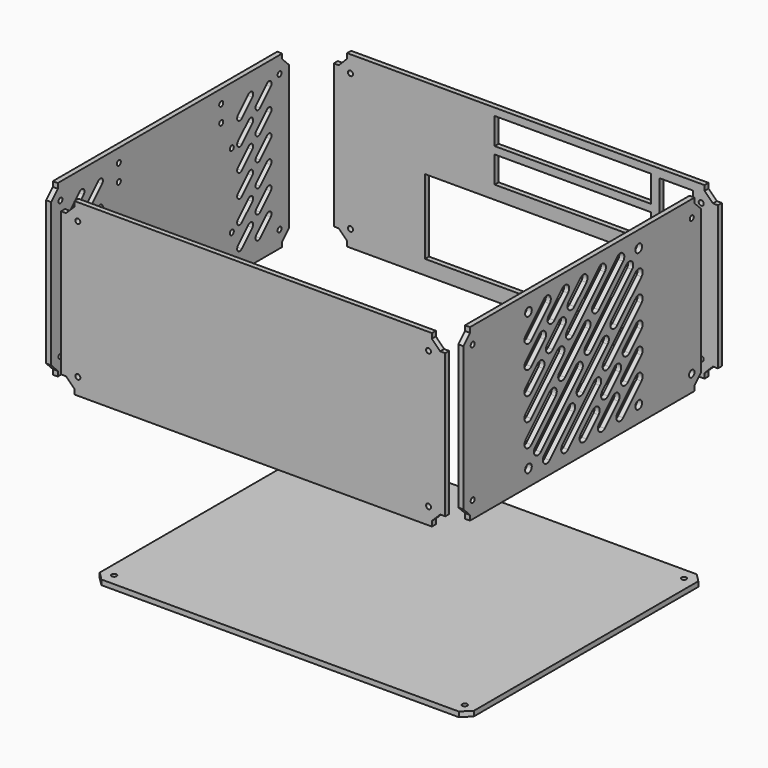
from build123d import *

# Parameters (mm, degrees)
F1_R      = 1.5
F2_DEPTH  = 3
F4_R      = 1.5
F4_R_2    = 2.0465
F5_DEPTH  = 3
F7_R      = 1.5
F8_DEPTH  = 3
F9_W      = 159
F9_H      = 44.7
F9_W_2    = 93.7
F9_H_2    = 15.9
F9_W_3    = 20
F9_H_3    = 40
F10_DEPTH = 25
F11_R     = 2.5
F12_DEPTH = 25
F14_R     = 1.5
F15_DEPTH = 3
F17_R     = 1.5
F18_DEPTH = 3
F19_R     = 1.5
F20_DEPTH = 25


with BuildPart() as f2:
    # F1 (on offset) → F2 (new body)
    with BuildSketch(Plane.XZ.offset(80)):
        Polygon((114.807646, 58.968537), (-99.192354, 58.968537), (-99.192354, 55.968537), (-104.192354, 50.968537), (-107.192354, 50.968537), (-107.192354, -35.031463), (-104.192354, -35.031463), (-99.192354, -40.031463), (-99.192354, -43.031463), (114.807646, -43.031463), (114.807646, -40.031463), (119.807646, -35.031463), (122.807646, -35.031463), (122.807646, 50.968537), (119.807646, 50.968537), (114.807646, 55.968537), align=None)
        with Locations((-97.192354, -33.031463)):
            Circle(F1_R, mode=Mode.SUBTRACT)
        with Locations((112.807646, -33.031463)):
            Circle(F1_R, mode=Mode.SUBTRACT)
        with Locations((-97.192354, 48.968537)):
            Circle(F1_R, mode=Mode.SUBTRACT)
        with Locations((112.807646, 48.968537)):
            Circle(F1_R, mode=Mode.SUBTRACT)
    extrude(amount=F2_DEPTH)


with BuildPart() as f5:
    # F4 (on offset) → F5 (new body)
    with BuildSketch(Plane.YZ.offset(120)):
        Polygon((103.286627, 57.326751), (-64.713373, 57.326751), (-64.713373, 54.326751), (-69.713373, 49.326751), (-69.713373, -36.673249), (-64.713373, -41.673249), (-64.713373, -44.673249), (103.286627, -44.673249), (103.286627, -41.673249), (108.286627, -36.673249), (108.286627, 49.326751), (103.286627, 54.326751), align=None)
        with Locations((-62.713373, -34.673249)):
            Circle(F4_R, mode=Mode.SUBTRACT)
        with Locations((101.286627, -34.673249)):
            Circle(F4_R_2, mode=Mode.SUBTRACT)
        with Locations((-62.713373, 47.326751)):
            Circle(F4_R, mode=Mode.SUBTRACT)
        with Locations((101.286627, 47.326751)):
            Circle(F4_R, mode=Mode.SUBTRACT)
    extrude(amount=F5_DEPTH)

    # F11 (on face) → F12 (cut)
    with BuildSketch(Plane.YZ.offset(123)):
        with BuildLine():
            ThreePointArc((-23.084693, 35.948071), (-23.084693, 31.705431), (-18.842052, 31.705431))
            Line((-18.842052, 31.705431), (-5.092052, 45.455431))
            ThreePointArc((-5.092052, 45.455431), (-5.092052, 49.698071), (-9.334693, 49.698071))
            Line((-9.334693, 49.698071), (-23.084693, 35.948071))
        make_face()
        with BuildLine():
            ThreePointArc((-23.084693, 22.198071), (-23.084693, 17.955431), (-18.842052, 17.955431))
            Line((-18.842052, 17.955431), (-8.627586, 28.169897))
            ThreePointArc((-8.627586, 28.169897), (-8.627586, 32.412537), (-12.870227, 32.412537))
            Line((-12.870227, 32.412537), (-23.084693, 22.198071))
        make_face()
        with BuildLine():
            ThreePointArc((-5.799159, 39.483605), (-5.799159, 35.240964), (-1.556519, 35.240964))
            Line((-1.556519, 35.240964), (8.657948, 45.455431))
            ThreePointArc((8.657948, 45.455431), (8.657948, 49.698071), (4.415307, 49.698071))
            Line((4.415307, 49.698071), (-5.799159, 39.483605))
        make_face()
        with BuildLine():
            ThreePointArc((-23.084693, 8.448071), (-23.084693, 4.205431), (-18.842052, 4.205431))
            Line((-18.842052, 4.205431), (-9.806098, 13.241385))
            ThreePointArc((-9.806098, 13.241385), (-9.806098, 17.484026), (-14.048738, 17.484026))
            Line((-14.048738, 17.484026), (-23.084693, 8.448071))
        make_face()
        with BuildLine():
            ThreePointArc((-6.977671, 24.555094), (-6.977671, 20.312453), (-2.73503, 20.312453))
            Line((-2.73503, 20.312453), (6.300925, 29.348408))
            ThreePointArc((6.300925, 29.348408), (6.300925, 33.591049), (2.058284, 33.591049))
            Line((2.058284, 33.591049), (-6.977671, 24.555094))
        make_face()
        with BuildLine():
            ThreePointArc((9.129352, 40.662116), (9.129352, 36.419476), (13.371993, 36.419476))
            Line((13.371993, 36.419476), (22.407948, 45.455431))
            ThreePointArc((22.407948, 45.455431), (22.407948, 49.698071), (18.165307, 49.698071))
            Line((18.165307, 49.698071), (9.129352, 40.662116))
        make_face()
        with BuildLine():
            ThreePointArc((-23.084693, -5.301929), (-23.084693, -9.544569), (-18.842052, -9.544569))
            Line((-18.842052, -9.544569), (5.122414, 14.419897))
            ThreePointArc((5.122414, 14.419897), (5.122414, 18.662537), (0.879773, 18.662537))
            Line((0.879773, 18.662537), (-23.084693, -5.301929))
        make_face()
        with BuildLine():
            ThreePointArc((7.950841, 25.733605), (7.950841, 21.490964), (12.193481, 21.490964))
            Line((12.193481, 21.490964), (36.157948, 45.455431))
            ThreePointArc((36.157948, 45.455431), (36.157948, 49.698071), (31.915307, 49.698071))
            Line((31.915307, 49.698071), (7.950841, 25.733605))
        make_face()
        with BuildLine():
            ThreePointArc((-23.084693, -19.051929), (-23.084693, -23.294569), (-18.842052, -23.294569))
            Line((-18.842052, -23.294569), (-0.639431, -5.091948))
            ThreePointArc((-0.639431, -5.091948), (-0.639431, -0.849307), (-4.882072, -0.849307))
            Line((-4.882072, -0.849307), (-23.084693, -19.051929))
        make_face()
        with BuildLine():
            ThreePointArc((2.188996, 6.22176), (2.188996, 1.97912), (6.431637, 1.97912))
            Line((6.431637, 1.97912), (24.634258, 20.181741))
            ThreePointArc((24.634258, 20.181741), (24.634258, 24.424382), (20.391618, 24.424382))
            Line((20.391618, 24.424382), (2.188996, 6.22176))
        make_face()
        with BuildLine():
            ThreePointArc((27.462685, 31.49545), (27.462685, 27.252809), (31.705326, 27.252809))
            Line((31.705326, 27.252809), (49.907948, 45.455431))
            ThreePointArc((49.907948, 45.455431), (49.907948, 49.698071), (45.665307, 49.698071))
            Line((45.665307, 49.698071), (27.462685, 31.49545))
        make_face()
        with BuildLine():
            ThreePointArc((-16.013625, -25.730861), (-16.013625, -29.973502), (-11.770985, -29.973502))
            Line((-11.770985, -29.973502), (18.872414, 0.669897))
            ThreePointArc((18.872414, 0.669897), (18.872414, 4.912537), (14.629773, 4.912537))
            Line((14.629773, 4.912537), (-16.013625, -25.730861))
        make_face()
        with BuildLine():
            ThreePointArc((21.700841, 11.983605), (21.700841, 7.740964), (25.943481, 7.740964))
            Line((25.943481, 7.740964), (56.58688, 38.384363))
            ThreePointArc((56.58688, 38.384363), (56.58688, 42.627003), (52.344239, 42.627003))
            Line((52.344239, 42.627003), (21.700841, 11.983605))
        make_face()
        with BuildLine():
            ThreePointArc((13.110486, -18.842031), (13.110486, -14.59939), (8.867845, -14.59939))
            Line((8.867845, -14.59939), (-9.334693, -32.801929))
            ThreePointArc((-9.334693, -32.801929), (-9.334693, -37.044569), (-5.092052, -37.044569))
            Line((-5.092052, -37.044569), (13.110486, -18.842031))
        make_face()
        with BuildLine():
            ThreePointArc((38.384341, 6.431824), (38.384341, 10.674465), (34.141701, 10.674465))
            Line((34.141701, 10.674465), (15.938913, -7.528323))
            ThreePointArc((15.938913, -7.528323), (15.938913, -11.770963), (20.181554, -11.770963))
            Line((20.181554, -11.770963), (38.384341, 6.431824))
        make_face()
        with BuildLine():
            ThreePointArc((63.657948, 31.705431), (63.657948, 35.948071), (59.415307, 35.948071))
            Line((59.415307, 35.948071), (41.212768, 17.745533))
            ThreePointArc((41.212768, 17.745533), (41.212768, 13.502892), (45.455409, 13.502892))
            Line((45.455409, 13.502892), (63.657948, 31.705431))
        make_face()
        with BuildLine():
            ThreePointArc((4.415307, -32.801929), (4.415307, -37.044569), (8.657948, -37.044569))
            Line((8.657948, -37.044569), (32.622414, -13.080103))
            ThreePointArc((32.622414, -13.080103), (32.622414, -8.837463), (28.379773, -8.837463))
            Line((28.379773, -8.837463), (4.415307, -32.801929))
        make_face()
        with BuildLine():
            ThreePointArc((35.450841, -1.766395), (35.450841, -6.009036), (39.693481, -6.009036))
            Line((39.693481, -6.009036), (63.657948, 17.955431))
            ThreePointArc((63.657948, 17.955431), (63.657948, 22.198071), (59.415307, 22.198071))
            Line((59.415307, 22.198071), (35.450841, -1.766395))
        make_face()
        with BuildLine():
            ThreePointArc((18.165307, -32.801929), (18.165307, -37.044569), (22.407948, -37.044569))
            Line((22.407948, -37.044569), (31.443902, -28.008615))
            ThreePointArc((31.443902, -28.008615), (31.443902, -23.765974), (27.201262, -23.765974))
            Line((27.201262, -23.765974), (18.165307, -32.801929))
        make_face()
        with BuildLine():
            ThreePointArc((34.272329, -16.694906), (34.272329, -20.937547), (38.51497, -20.937547))
            Line((38.51497, -20.937547), (47.550925, -11.901592))
            ThreePointArc((47.550925, -11.901592), (47.550925, -7.658951), (43.308284, -7.658951))
            Line((43.308284, -7.658951), (34.272329, -16.694906))
        make_face()
        with BuildLine():
            ThreePointArc((50.379352, -0.587884), (50.379352, -4.830524), (54.621993, -4.830524))
            Line((54.621993, -4.830524), (63.657948, 4.205431))
            ThreePointArc((63.657948, 4.205431), (63.657948, 8.448071), (59.415307, 8.448071))
            Line((59.415307, 8.448071), (50.379352, -0.587884))
        make_face()
        with BuildLine():
            ThreePointArc((31.915307, -32.801929), (31.915307, -37.044569), (36.157948, -37.044569))
            Line((36.157948, -37.044569), (46.372414, -26.830103))
            ThreePointArc((46.372414, -26.830103), (46.372414, -22.587463), (42.129773, -22.587463))
            Line((42.129773, -22.587463), (31.915307, -32.801929))
        make_face()
        with BuildLine():
            ThreePointArc((49.200841, -15.516395), (49.200841, -19.759036), (53.443481, -19.759036))
            Line((53.443481, -19.759036), (63.657948, -9.544569))
            ThreePointArc((63.657948, -9.544569), (63.657948, -5.301929), (59.415307, -5.301929))
            Line((59.415307, -5.301929), (49.200841, -15.516395))
        make_face()
        with BuildLine():
            ThreePointArc((45.665307, -32.801929), (45.665307, -37.044569), (49.907948, -37.044569))
            Line((49.907948, -37.044569), (63.657948, -23.294569))
            ThreePointArc((63.657948, -23.294569), (63.657948, -19.051929), (59.415307, -19.051929))
            Line((59.415307, -19.051929), (45.665307, -32.801929))
        make_face()
        with Locations((61.536627, 47.576751)):
            Circle(F11_R)
        with Locations((-20.963373, 47.576751)):
            Circle(F11_R)
        with Locations((61.536627, -34.923249)):
            Circle(F11_R)
        with Locations((-20.963373, -34.923249)):
            Circle(F11_R)
    extrude(amount=-F12_DEPTH, mode=Mode.SUBTRACT)


with BuildPart() as f8:
    # F7 (on offset) → F8 (new body)
    with BuildSketch(Plane.XZ.offset(-120)):
        Polygon((118.065092, 53.698919), (118.065092, 56.698919), (-95.934908, 56.698919), (-95.934908, 53.698919), (-100.934908, 48.698919), (-103.934908, 48.698919), (-103.934908, -37.301081), (-100.934908, -37.301081), (-95.934908, -42.301081), (-95.934908, -45.301081), (118.065092, -45.301081), (118.065092, -42.301081), (123.065092, -37.301081), (126.065092, -37.301081), (126.065092, 48.698919), (123.065092, 48.698919), align=None)
        with Locations((-93.934908, -35.301081)):
            Circle(F7_R, mode=Mode.SUBTRACT)
        with Locations((116.065092, -35.301081)):
            Circle(F7_R, mode=Mode.SUBTRACT)
        with Locations((-93.934908, 46.698919)):
            Circle(F7_R, mode=Mode.SUBTRACT)
        with Locations((116.065092, 46.698919)):
            Circle(F7_R, mode=Mode.SUBTRACT)
    extrude(amount=F8_DEPTH)

    # F9 (on face) → F10 (cut)
    with BuildSketch(Plane(origin=(0, 120, 0), x_dir=(-1, 0, 0), z_dir=(0, 1, 0))):
        with Locations((-30.165092, -14.251081)):
            Rectangle(F9_W, F9_H)
        with Locations((-39.215092, 24.048919)):
            Rectangle(F9_W_2, F9_H_2)
        with Locations((-39.215092, 44.348919)):
            Rectangle(F9_W_2, F9_H_2)
        with Locations((-101.065092, 31.598919)):
            Rectangle(F9_W_3, F9_H_3)
    extrude(amount=-F10_DEPTH, mode=Mode.SUBTRACT)


with BuildPart() as f15:
    # F14 (on offset) → F15 (new body)
    with BuildSketch(Plane.YZ.offset(-126)):
        Polygon((102.273727, 53.680823), (-65.726273, 53.680823), (-65.726273, 50.680823), (-70.726273, 45.680823), (-70.726273, -40.319177), (-65.726273, -45.319177), (-65.726273, -48.319177), (102.273727, -48.319177), (102.273727, -45.319177), (107.273727, -40.319177), (107.273727, 45.680823), (102.273727, 50.680823), align=None)
        with Locations((-63.726273, -38.319177)):
            Circle(F14_R, mode=Mode.SUBTRACT)
        with Locations((100.273727, -38.319177)):
            Circle(F14_R, mode=Mode.SUBTRACT)
        with Locations((-63.726273, 43.680823)):
            Circle(F14_R, mode=Mode.SUBTRACT)
        with Locations((100.273727, 43.680823)):
            Circle(F14_R, mode=Mode.SUBTRACT)
    extrude(amount=F15_DEPTH)

    # F19 (on face) → F20 (cut)
    with BuildSketch(Plane(origin=(-126, 0, 0), x_dir=(0, -1, 0), z_dir=(-1, 0, 0))):
        with BuildLine():
            ThreePointArc((54.31206, -36.983391), (57.140487, -36.983391), (57.140487, -34.154964))
            Line((57.140487, -34.154964), (49.140487, -26.154964))
            ThreePointArc((49.140487, -26.154964), (46.31206, -26.154964), (46.31206, -28.983391))
            Line((46.31206, -28.983391), (54.31206, -36.983391))
        make_face()
        with BuildLine():
            ThreePointArc((49.140487, -12.404964), (46.31206, -12.404964), (46.31206, -15.233391))
            Line((46.31206, -15.233391), (54.31206, -23.233391))
            ThreePointArc((54.31206, -23.233391), (57.140487, -23.233391), (57.140487, -20.404964))
            Line((57.140487, -20.404964), (49.140487, -12.404964))
        make_face()
        with BuildLine():
            ThreePointArc((49.140487, 1.345036), (46.31206, 1.345036), (46.31206, -1.483391))
            Line((46.31206, -1.483391), (54.31206, -9.483391))
            ThreePointArc((54.31206, -9.483391), (57.140487, -9.483391), (57.140487, -6.654964))
            Line((57.140487, -6.654964), (49.140487, 1.345036))
        make_face()
        with BuildLine():
            ThreePointArc((49.140487, 15.095036), (46.31206, 15.095036), (46.31206, 12.266609))
            Line((46.31206, 12.266609), (54.31206, 4.266609))
            ThreePointArc((54.31206, 4.266609), (57.140487, 4.266609), (57.140487, 7.095036))
            Line((57.140487, 7.095036), (49.140487, 15.095036))
        make_face()
        with BuildLine():
            ThreePointArc((49.140487, 28.845036), (46.31206, 28.845036), (46.31206, 26.016609))
            Line((46.31206, 26.016609), (54.31206, 18.016609))
            ThreePointArc((54.31206, 18.016609), (57.140487, 18.016609), (57.140487, 20.845036))
            Line((57.140487, 20.845036), (49.140487, 28.845036))
        make_face()
        with BuildLine():
            ThreePointArc((49.140487, 42.595036), (46.31206, 42.595036), (46.31206, 39.766609))
            Line((46.31206, 39.766609), (54.31206, 31.766609))
            ThreePointArc((54.31206, 31.766609), (57.140487, 31.766609), (57.140487, 34.595036))
            Line((57.140487, 34.595036), (49.140487, 42.595036))
        make_face()
        with BuildLine():
            ThreePointArc((35.390487, -26.154964), (32.56206, -26.154964), (32.56206, -28.983391))
            Line((32.56206, -28.983391), (40.56206, -36.983391))
            ThreePointArc((40.56206, -36.983391), (43.390487, -36.983391), (43.390487, -34.154964))
            Line((43.390487, -34.154964), (35.390487, -26.154964))
        make_face()
        with BuildLine():
            ThreePointArc((35.390487, -12.404964), (32.56206, -12.404964), (32.56206, -15.233391))
            Line((32.56206, -15.233391), (40.56206, -23.233391))
            ThreePointArc((40.56206, -23.233391), (43.390487, -23.233391), (43.390487, -20.404964))
            Line((43.390487, -20.404964), (35.390487, -12.404964))
        make_face()
        with BuildLine():
            ThreePointArc((35.390487, 1.345036), (32.56206, 1.345036), (32.56206, -1.483391))
            Line((32.56206, -1.483391), (40.56206, -9.483391))
            ThreePointArc((40.56206, -9.483391), (43.390487, -9.483391), (43.390487, -6.654964))
            Line((43.390487, -6.654964), (35.390487, 1.345036))
        make_face()
        with BuildLine():
            ThreePointArc((35.390487, 15.095036), (32.56206, 15.095036), (32.56206, 12.266609))
            Line((32.56206, 12.266609), (40.56206, 4.266609))
            ThreePointArc((40.56206, 4.266609), (43.390487, 4.266609), (43.390487, 7.095036))
            Line((43.390487, 7.095036), (35.390487, 15.095036))
        make_face()
        with BuildLine():
            ThreePointArc((35.390487, 28.845036), (32.56206, 28.845036), (32.56206, 26.016609))
            Line((32.56206, 26.016609), (40.56206, 18.016609))
            ThreePointArc((40.56206, 18.016609), (43.390487, 18.016609), (43.390487, 20.845036))
            Line((43.390487, 20.845036), (35.390487, 28.845036))
        make_face()
        with BuildLine():
            ThreePointArc((35.390487, 42.595036), (32.56206, 42.595036), (32.56206, 39.766609))
            Line((32.56206, 39.766609), (40.56206, 31.766609))
            ThreePointArc((40.56206, 31.766609), (43.390487, 31.766609), (43.390487, 34.595036))
            Line((43.390487, 34.595036), (35.390487, 42.595036))
        make_face()
        with BuildLine():
            ThreePointArc((-85.68794, -36.983391), (-82.859513, -36.983391), (-82.859513, -34.154964))
            Line((-82.859513, -34.154964), (-90.859513, -26.154964))
            ThreePointArc((-90.859513, -26.154964), (-93.68794, -26.154964), (-93.68794, -28.983391))
            Line((-93.68794, -28.983391), (-85.68794, -36.983391))
        make_face()
        with BuildLine():
            Line((-93.68794, -15.233391), (-85.68794, -23.233391))
            ThreePointArc((-85.68794, -23.233391), (-82.859513, -23.233391), (-82.859513, -20.404964))
            Line((-82.859513, -20.404964), (-90.859513, -12.404964))
            ThreePointArc((-90.859513, -12.404964), (-93.68794, -12.404964), (-93.68794, -15.233391))
        make_face()
        with BuildLine():
            Line((-93.68794, -1.483391), (-85.68794, -9.483391))
            ThreePointArc((-85.68794, -9.483391), (-82.859513, -9.483391), (-82.859513, -6.654964))
            Line((-82.859513, -6.654964), (-90.859513, 1.345036))
            ThreePointArc((-90.859513, 1.345036), (-93.68794, 1.345036), (-93.68794, -1.483391))
        make_face()
        with BuildLine():
            Line((-93.68794, 12.266609), (-85.68794, 4.266609))
            ThreePointArc((-85.68794, 4.266609), (-82.859513, 4.266609), (-82.859513, 7.095036))
            Line((-82.859513, 7.095036), (-90.859513, 15.095036))
            ThreePointArc((-90.859513, 15.095036), (-93.68794, 15.095036), (-93.68794, 12.266609))
        make_face()
        with BuildLine():
            Line((-93.68794, 26.016609), (-85.68794, 18.016609))
            ThreePointArc((-85.68794, 18.016609), (-82.859513, 18.016609), (-82.859513, 20.845036))
            Line((-82.859513, 20.845036), (-90.859513, 28.845036))
            ThreePointArc((-90.859513, 28.845036), (-93.68794, 28.845036), (-93.68794, 26.016609))
        make_face()
        with BuildLine():
            Line((-93.68794, 39.766609), (-85.68794, 31.766609))
            ThreePointArc((-85.68794, 31.766609), (-82.859513, 31.766609), (-82.859513, 34.595036))
            Line((-82.859513, 34.595036), (-90.859513, 42.595036))
            ThreePointArc((-90.859513, 42.595036), (-93.68794, 42.595036), (-93.68794, 39.766609))
        make_face()
        with BuildLine():
            Line((-79.93794, -28.983391), (-71.93794, -36.983391))
            ThreePointArc((-71.93794, -36.983391), (-69.109513, -36.983391), (-69.109513, -34.154964))
            Line((-69.109513, -34.154964), (-77.109513, -26.154964))
            ThreePointArc((-77.109513, -26.154964), (-79.93794, -26.154964), (-79.93794, -28.983391))
        make_face()
        with BuildLine():
            Line((-79.93794, -15.233391), (-71.93794, -23.233391))
            ThreePointArc((-71.93794, -23.233391), (-69.109513, -23.233391), (-69.109513, -20.404964))
            Line((-69.109513, -20.404964), (-77.109513, -12.404964))
            ThreePointArc((-77.109513, -12.404964), (-79.93794, -12.404964), (-79.93794, -15.233391))
        make_face()
        with BuildLine():
            Line((-79.93794, -1.483391), (-71.93794, -9.483391))
            ThreePointArc((-71.93794, -9.483391), (-69.109513, -9.483391), (-69.109513, -6.654964))
            Line((-69.109513, -6.654964), (-77.109513, 1.345036))
            ThreePointArc((-77.109513, 1.345036), (-79.93794, 1.345036), (-79.93794, -1.483391))
        make_face()
        with BuildLine():
            Line((-79.93794, 12.266609), (-71.93794, 4.266609))
            ThreePointArc((-71.93794, 4.266609), (-69.109513, 4.266609), (-69.109513, 7.095036))
            Line((-69.109513, 7.095036), (-77.109513, 15.095036))
            ThreePointArc((-77.109513, 15.095036), (-79.93794, 15.095036), (-79.93794, 12.266609))
        make_face()
        with BuildLine():
            Line((-79.93794, 26.016609), (-71.93794, 18.016609))
            ThreePointArc((-71.93794, 18.016609), (-69.109513, 18.016609), (-69.109513, 20.845036))
            Line((-69.109513, 20.845036), (-77.109513, 28.845036))
            ThreePointArc((-77.109513, 28.845036), (-79.93794, 28.845036), (-79.93794, 26.016609))
        make_face()
        with BuildLine():
            Line((-79.93794, 39.766609), (-71.93794, 31.766609))
            ThreePointArc((-71.93794, 31.766609), (-69.109513, 31.766609), (-69.109513, 34.595036))
            Line((-69.109513, 34.595036), (-77.109513, 42.595036))
            ThreePointArc((-77.109513, 42.595036), (-79.93794, 42.595036), (-79.93794, 39.766609))
        make_face()
        with Locations((-56.573727, 45.680823)):
            Circle(F19_R)
        with Locations((20.026273, 45.680823)):
            Circle(F19_R)
        with Locations((-56.573727, 35.680823)):
            Circle(F19_R)
        with Locations((20.026273, 35.680823)):
            Circle(F19_R)
        with Locations((-64.523727, 19.130823)):
            Circle(F19_R)
        with Locations((27.976273, 19.130823)):
            Circle(F19_R)
        with Locations((27.976273, -25.319177)):
            Circle(F19_R)
        with Locations((-64.523727, -25.319177)):
            Circle(F19_R)
    extrude(amount=-F20_DEPTH, mode=Mode.SUBTRACT)


with BuildPart() as f18:
    # F17 (on offset) → F18 (new body)
    with BuildSketch(Plane.XY.offset(-152)):
        Polygon((-104.542598, -57.385352), (-99.542598, -62.385352), (114.457402, -62.385352), (119.457402, -57.385352), (119.457402, 110.614648), (114.457402, 115.614648), (-99.542598, 115.614648), (-104.542598, 110.614648), align=None)
        with Locations((-97.542598, -55.385352)):
            Circle(F17_R, mode=Mode.SUBTRACT)
        with Locations((112.457402, -55.385352)):
            Circle(F17_R, mode=Mode.SUBTRACT)
        with Locations((-97.542598, 108.614648)):
            Circle(F17_R, mode=Mode.SUBTRACT)
        with Locations((112.457402, 108.614648)):
            Circle(F17_R, mode=Mode.SUBTRACT)
    extrude(amount=F18_DEPTH)


solid = Compound([f2.part, f5.part, f8.part, f15.part, f18.part])
